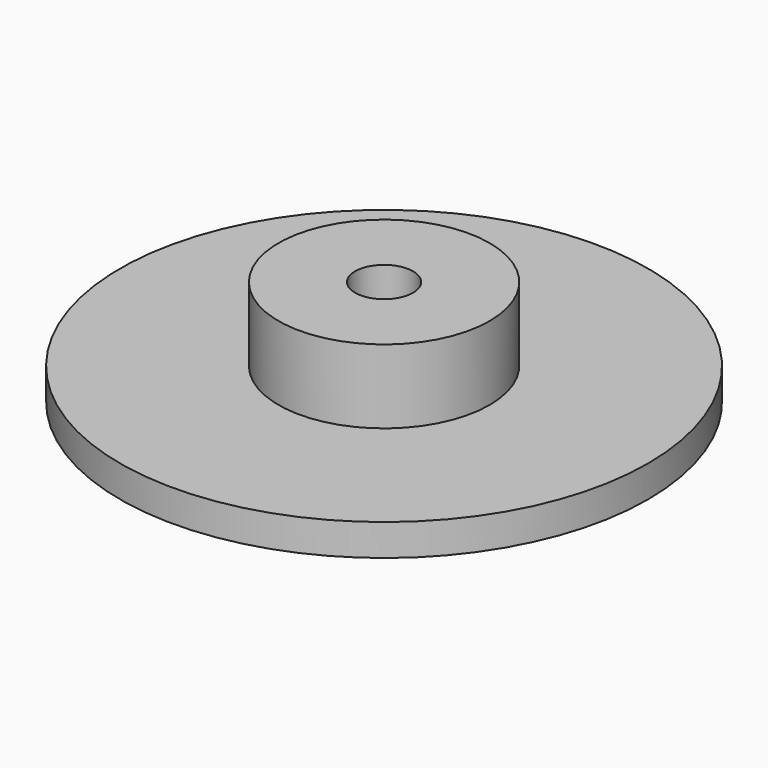
from build123d import *

# Parameters (mm, degrees)
F0_R     = 25
F0_R_2   = 10
F1_DEPTH = 3
F2_DEPTH = 10
F3_D     = 5.5
F3_DEPTH = 30
F3_TIP   = 1.6523667023
F4_R     = 6.6209049639
F5_DEPTH = 5


with BuildPart() as f1:
    # F0 (on Top) → F1 (new body)
    with BuildSketch(Plane.XY):
        Circle(F0_R)
        Circle(F0_R_2, mode=Mode.SUBTRACT)
        Circle(F0_R_2)
    extrude(amount=F1_DEPTH)

    # F0 (on Top) → F2 (join)
    with BuildSketch(Plane.XY):
        Circle(F0_R_2)
    extrude(amount=F2_DEPTH)

    # F3
    with Locations(Plane(origin=(0, 0, 0), x_dir=(1, 0, 0), z_dir=(0, 0, -1))):
        with Locations((0, 0)):
            Hole(F3_D / 2, depth=F3_DEPTH)
            with Locations((0, 0, -(F3_DEPTH + F3_TIP / 2))):  # 118° drill point
                Cone(0, F3_D / 2, F3_TIP, mode=Mode.SUBTRACT)

    # F4 (on face) → F5 (cut)
    with BuildSketch(Plane.XY):
        Circle(F4_R)
        Polygon((-4.8497422612, 0), (-2.4248711306, 4.2), (2.4248711306, 4.2), (4.8497422612, 0), (2.4248711306, -4.2), (-2.4248711306, -4.2), align=None, mode=Mode.SUBTRACT)
        Polygon((2.4248711306, 4.2), (-2.4248711306, 4.2), (-4.8497422612, 0), (-2.4248711306, -4.2), (2.4248711306, -4.2), (4.8497422612, 0), align=None)
    extrude(amount=F5_DEPTH, mode=Mode.SUBTRACT)


solid = f1.part
